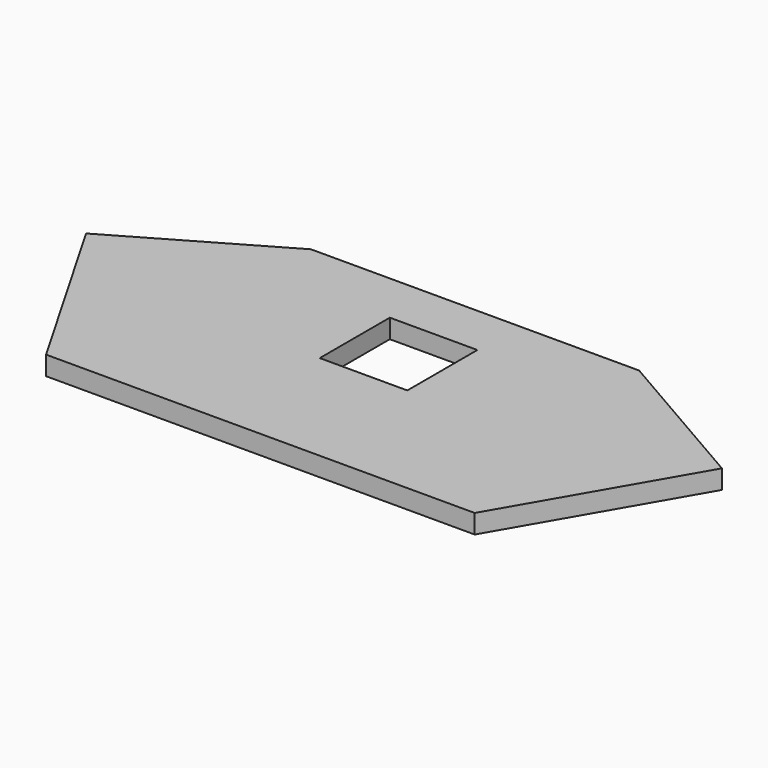
from build123d import *

# Parameters (mm, degrees)
F0_W     = 25.35
F0_H     = 25.35
F1_DEPTH = 5.5


with BuildPart() as f1:
    # F0 (on Top) → F1 (new body)
    with BuildSketch(Plane.XY):
        Polygon((47.5, 27.675), (-47.5, 27.675), (-92.037046, 1.961524), (-62.037046, -50), (62.037046, -50), (92.037046, 1.961524), (74.716538, 11.961524), align=None)
        Rectangle(F0_W, F0_H, mode=Mode.SUBTRACT)
    extrude(amount=F1_DEPTH)


solid = f1.part
